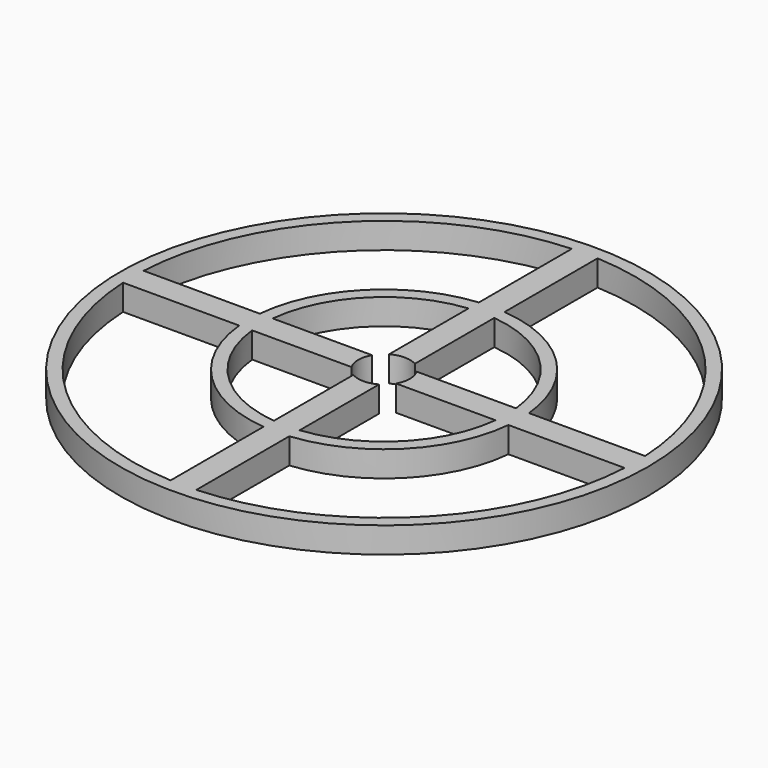
from build123d import *

# Parameters (mm, degrees)
F0_W     = 9.5
F0_H     = 1
F0_W_2   = 1
F0_H_2   = 9.5
F1_DEPTH = 1
F2_R     = 10.25
F2_R_2   = 9.75
F2_R_3   = 5.25
F2_R_4   = 4.75
F3_DEPTH = 1
F4_R     = 1
F5_DEPTH = 25


with BuildPart() as f1:
    # F0 (on Top) → F1 (new body)
    with BuildSketch(Plane.XY):
        with Locations((-5.25, 0)):
            Rectangle(F0_W, F0_H)
        with Locations((0, 5.25)):
            Rectangle(F0_W_2, F0_H_2)
        with Locations((5.25, 0)):
            Rectangle(F0_W, F0_H)
        with Locations((0, -5.25)):
            Rectangle(F0_W_2, F0_H_2)
    extrude(amount=F1_DEPTH)

    # F2 (on Top) → F3 (join)
    with BuildSketch(Plane.XY):
        Circle(F2_R)
        Circle(F2_R_2, mode=Mode.SUBTRACT)
        Circle(F2_R_3)
        Circle(F2_R_4, mode=Mode.SUBTRACT)
    extrude(amount=F3_DEPTH)

    # F4 (on Top) → F5 (cut)
    with BuildSketch(Plane.XY):
        Circle(F4_R)
    extrude(amount=F5_DEPTH, mode=Mode.SUBTRACT)


solid = f1.part
